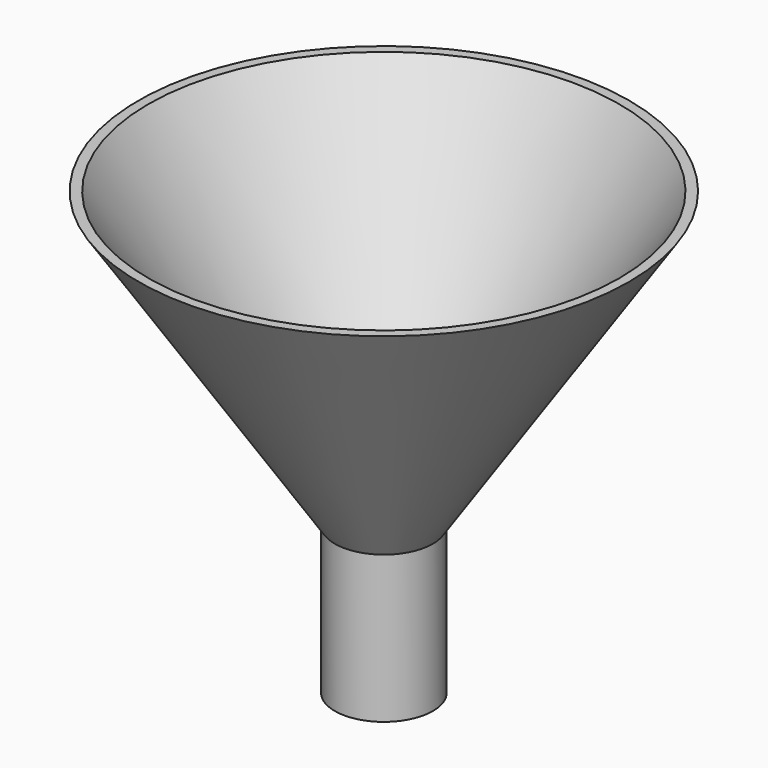
from build123d import *

# Parameters (mm, degrees)
CYLINDER001_R     = 4.5
CYLINDER001_DEPTH = 15
CYLINDER_R        = 5
CYLINDER_DEPTH    = 15


with BuildPart() as cilindre001:
    # Cylinder001 → Cylinder001 (new body)
    with BuildSketch(Plane.XY):
        Circle(CYLINDER001_R)
    extrude(amount=CYLINDER001_DEPTH)


with BuildPart() as cut:
    # Cylinder → Cylinder (new body)
    with BuildSketch(Plane.XY):
        Circle(CYLINDER_R)
    extrude(amount=CYLINDER_DEPTH)

    # Cut: cut Cilindre001
    add(cilindre001.part, mode=Mode.SUBTRACT)


with BuildPart() as con001:
    # Cone001 → Cone001 (revolve)
    with BuildSketch(Plane(origin=(0, 0, 15), x_dir=(1, 0, 0), z_dir=(0, -1, 0))):
        Polygon((0, 0), (4.5, 0), (24, 30), (0, 30), align=None)
    revolve(axis=Axis((0, 0, 15), (0, 0, 1)))


with BuildPart() as fusion:
    # Cone → Cone (revolve)
    with BuildSketch(Plane(origin=(0, 0, 15), x_dir=(1, 0, 0), z_dir=(0, -1, 0))):
        Polygon((0, 0), (5, 0), (25, 30), (0, 30), align=None)
    revolve(axis=Axis((0, 0, 15), (0, 0, 1)))

    # Cut001: cut Con001
    add(con001.part, mode=Mode.SUBTRACT)

    # Fusion: union Cut
    add(cut.part)


solid = fusion.part
